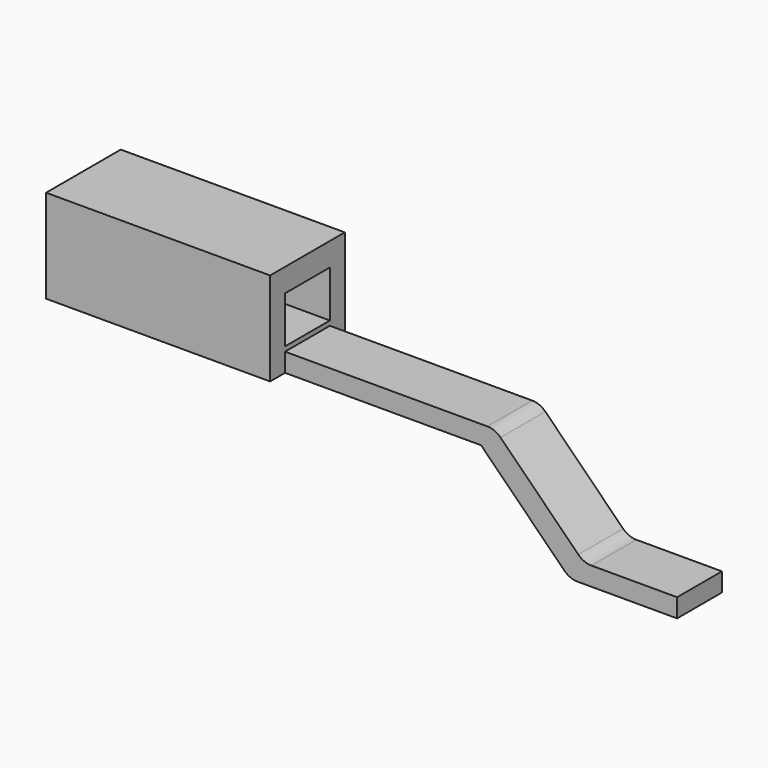
from build123d import *

# Parameters (mm, degrees)
BOX135_W     = 1.2
BOX135_H     = 0.5
BOX135_DEPTH = 0.5
BOX137_W     = 1.5
BOX137_H     = 0.3
BOX137_DEPTH = 0.1
BOX138_W     = 1.3
BOX138_H     = 0.3
BOX138_DEPTH = 0.575
BOX136_W     = 0.25
BOX136_H     = 0.3
BOX136_DEPTH = 0.475
BOX139_W     = 0.5
BOX139_H     = 0.3
BOX139_DEPTH = 0.5
BOX140_W     = 0.5
BOX140_H     = 0.3
BOX140_DEPTH = 0.75
BOX141_W     = 0.4
BOX141_H     = 0.3
BOX141_DEPTH = 0.75
FILLET020_R  = 0.1
FILLET021_R  = 0.1
BOX142_W     = 1.5
BOX142_H     = 0.3
BOX142_DEPTH = 0.25
FILLET029_R  = 0.1


with BuildPart() as part:
    # Box135 → Box135 (join)
    with BuildSketch(Plane(origin=(-2, 4.25, 0.475), x_dir=(1, 0, 0), z_dir=(0, 0, 1))):
        with Locations((0.6, 0.25)):
            Rectangle(BOX135_W, BOX135_H)
    extrude(amount=BOX135_DEPTH)

    # Box137 → Box137 (join)
    with BuildSketch(Plane(origin=(-0.8, 4.35, 0.475), x_dir=(1, 0, 0), z_dir=(0, 0, 1))):
        with Locations((0.75, 0.15)):
            Rectangle(BOX137_W, BOX137_H)
    extrude(amount=BOX137_DEPTH)

    # Box138 → Box138 (join)
    with BuildSketch(Plane(origin=(0, 4.35, 0), x_dir=(1, 0, 0), z_dir=(0, 0, 1))):
        with Locations((0.65, 0.15)):
            Rectangle(BOX138_W, BOX138_H)
    extrude(amount=BOX138_DEPTH)

    # Box136 → Box136 (cut)
    with BuildSketch(Plane(origin=(0, 4.35, 0), x_dir=(1, 0, 0), z_dir=(0, 0, 1))):
        with Locations((0.125, 0.15)):
            Rectangle(BOX136_W, BOX136_H)
    extrude(amount=BOX136_DEPTH, mode=Mode.SUBTRACT)

    # Box139 → Box139 (cut)
    with BuildSketch(Plane(origin=(0.8, 4.35, 0.1), x_dir=(1, 0, 0), z_dir=(0, 0, 1))):
        with Locations((0.25, 0.15)):
            Rectangle(BOX139_W, BOX139_H)
    extrude(amount=BOX139_DEPTH, mode=Mode.SUBTRACT)

    # Box140 → Box140 (cut)
    with BuildSketch(Plane(origin=(0.8, 4.35, 0.1), x_dir=(0.707107, 0, 0.707107), z_dir=(-0.707107, 0, 0.707107))):
        with Locations((0.25, 0.15)):
            Rectangle(BOX140_W, BOX140_H)
    extrude(amount=BOX140_DEPTH, mode=Mode.SUBTRACT)

    # Box141 → Box141 (cut)
    with BuildSketch(Plane(origin=(0.4975, 4.35, -0.338), x_dir=(0.707107, 0, 0.707107), z_dir=(-0.707107, 0, 0.707107))):
        with Locations((0.2, 0.15)):
            Rectangle(BOX141_W, BOX141_H)
    extrude(amount=BOX141_DEPTH, mode=Mode.SUBTRACT)

    # Fillet020
    fillet020_edges = [part.edges().sort_by_distance(p)[0] for p in [
        (0.325, 4.5, 0.575),
    ]]
    fillet(fillet020_edges, radius=FILLET020_R)

    # Fillet021
    fillet021_edges = [part.edges().sort_by_distance(p)[0] for p in [
        (0.725185, 4.5, 0),
    ]]
    fillet(fillet021_edges, radius=FILLET021_R)

    # Box142 → Box142 (cut)
    with BuildSketch(Plane(origin=(-2, 4.35, 0.6), x_dir=(1, 0, 0), z_dir=(0, 0, 1))):
        with Locations((0.75, 0.15)):
            Rectangle(BOX142_W, BOX142_H)
    extrude(amount=BOX142_DEPTH, mode=Mode.SUBTRACT)

    # Fillet029
    fillet029_edges = [part.edges().sort_by_distance(p)[0] for p in [
        (0.8, 4.5, 0.1),
    ]]
    fillet(fillet029_edges, radius=FILLET029_R)


with BuildPart() as part_1:
    # Body044 placement: moved
    add(part.part.moved(Location((0, -3.5, 0))))


solid = part_1.part
